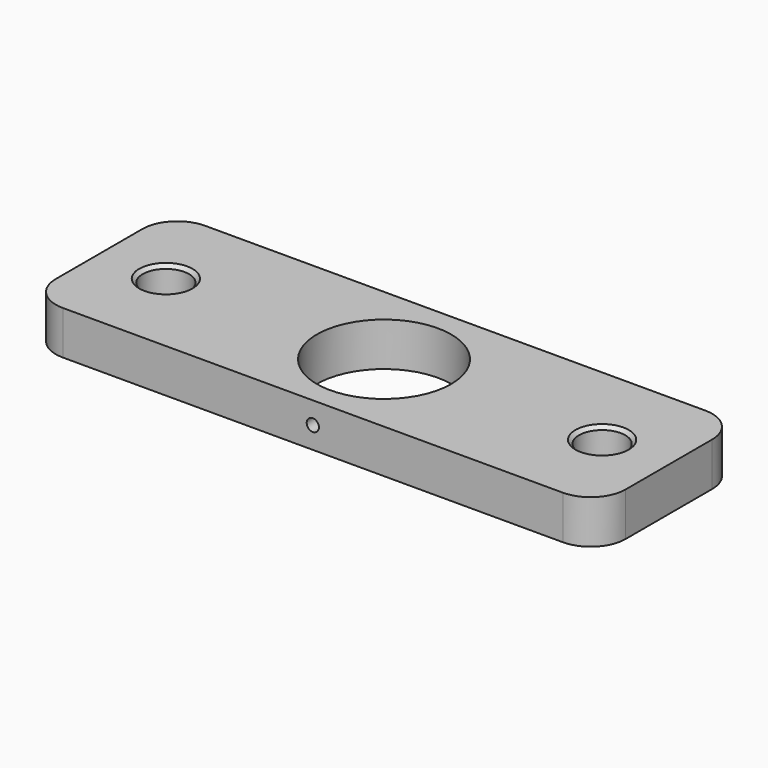
from build123d import *

# Parameters (mm, degrees)
F0_W     = 82.946875
F0_H     = 25.908
F0_R     = 3.3734375
F0_R_2   = 9.779
F1_DEPTH = 6.35
F2_R     = 0.889
F3_DEPTH = 3.2164930276
F4_R     = 5.08
F5_SIZE  = 0.508


with BuildPart() as f1:
    # F0 (on Top) → F1 (new body)
    with BuildSketch(Plane.XY):
        Rectangle(F0_W, F0_H)
        with Locations((-31.75, 0)):
            Circle(F0_R, mode=Mode.SUBTRACT)
        Circle(F0_R_2, mode=Mode.SUBTRACT)
        with Locations((31.75, 0)):
            Circle(F0_R, mode=Mode.SUBTRACT)
    extrude(amount=F1_DEPTH)

    # F2 (on face) → F3 (cut, through all)
    with BuildSketch(Plane.XZ.offset(12.954)):
        with Locations((0, 3.175)):
            Circle(F2_R)
    extrude(amount=-F3_DEPTH, mode=Mode.SUBTRACT)

    # F4
    f4_edges = [f1.edges().sort_by_distance(p)[0] for p in [
        (41.473438, -12.954, 3.175),
        (41.473438, 12.954, 3.175),
        (-41.473438, -12.954, 3.175),
        (-41.473438, 12.954, 3.175),
    ]]
    fillet(f4_edges, radius=F4_R)

    # F5
    f5_edges = [f1.edges().sort_by_distance(p)[0] for p in [
        (-35.123438, 0, 6.35),
        (28.376562, 0, 6.35),
        (-35.123438, 0, 0),
        (28.376562, 0, 0),
    ]]
    chamfer(f5_edges, length=F5_SIZE)


solid = f1.part
